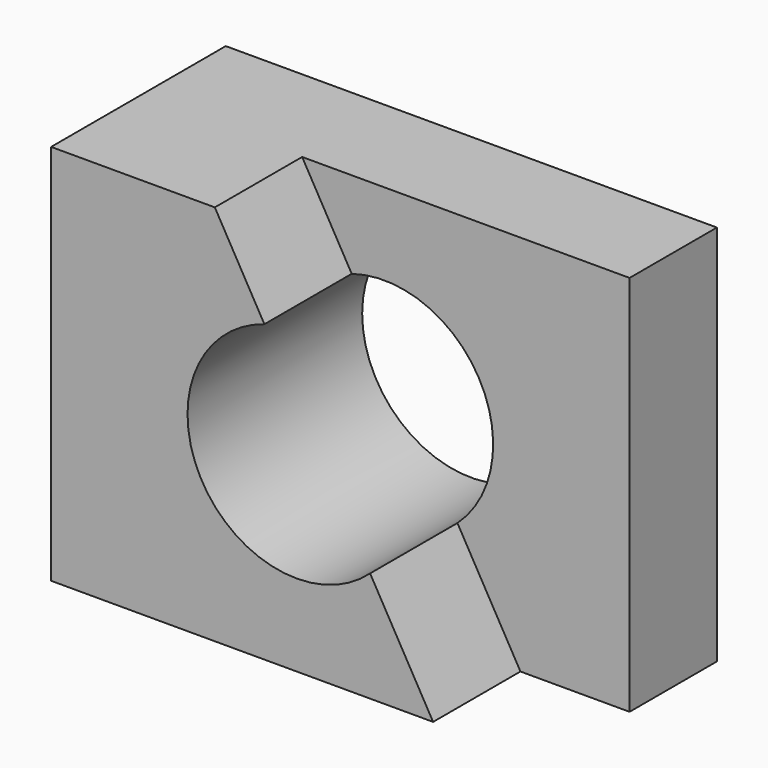
from build123d import *

# Parameters (mm, degrees)
F0_W     = 114.3
F0_H     = 25.4
F1_DEPTH = 88.9
F3_DEPTH = 25.4
F4_R     = 25.4
F5_DEPTH = 50.801


with BuildPart() as f1:
    # F0 (on Top) → F1 (new body)
    with BuildSketch(Plane.XY):
        with Locations((-61.648452, 16.44041)):
            Rectangle(F0_W, F0_H)
    extrude(amount=F1_DEPTH)

    # F2 (on face) → F3 (join)
    with BuildSketch(Plane.XZ.offset(-3.74041)):
        Polygon((-29.898452, 0), (-80.698452, 88.9), (-118.798452, 88.9), (-118.798452, 0), align=None)
    extrude(amount=F3_DEPTH)

    # F4 (on face) → F5 (cut, through all)
    with BuildSketch(Plane(origin=(0, 29.14041, 0), x_dir=(-1, 0, 0), z_dir=(0, 1, 0))):
        with Locations((61.648452, 44.45)):
            Circle(F4_R)
    extrude(amount=-F5_DEPTH, mode=Mode.SUBTRACT)


solid = f1.part
